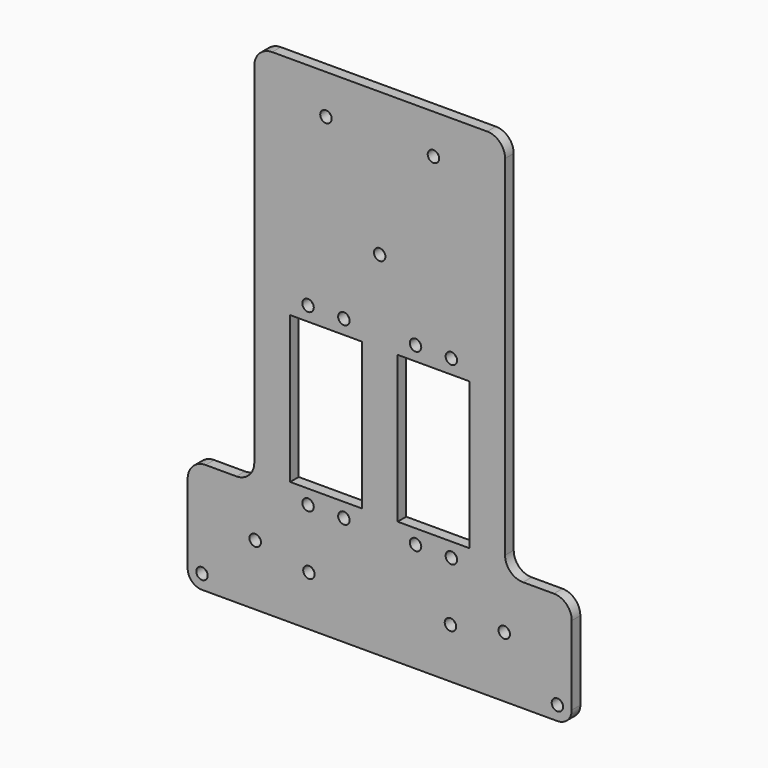
from build123d import *

# Parameters (mm, degrees)
SKETCH013_R     = 1.6
SKETCH013_W     = 20
SKETCH013_H     = 41
PAD005_DEPTH    = 3
FILLET009_R     = 4
FILLET010_R     = 5
SKETCH019_R     = 1.6
POCKET011_DEPTH = 3.001


with BuildPart() as part:
    # Sketch013 (on DatumPlane) → Pad005 (new body)
    with BuildSketch(Plane.XZ.offset(41.112698)):
        Polygon((42.75, 129.5), (42.75, -9), (-10.85, -9), (-10.85, 22), (7.75, 22), (7.75, 129.5), align=None)
        with Locations((22.75, 21.5)):
            Circle(SKETCH013_R, mode=Mode.SUBTRACT)
        with Locations((32.75, 21.5)):
            Circle(SKETCH013_R, mode=Mode.SUBTRACT)
        with Locations((8, 8)):
            Circle(SKETCH013_R, mode=Mode.SUBTRACT)
        with Locations((-6.85, -5)):
            Circle(SKETCH013_R, mode=Mode.SUBTRACT)
        with Locations((23, 5)):
            Circle(SKETCH013_R, mode=Mode.SUBTRACT)
        with Locations((22.75, 70.5)):
            Circle(SKETCH013_R, mode=Mode.SUBTRACT)
        with Locations((32.75, 70.5)):
            Circle(SKETCH013_R, mode=Mode.SUBTRACT)
        with Locations((27.75, 46)):
            Rectangle(SKETCH013_W, SKETCH013_H, mode=Mode.SUBTRACT)
    pad005 = extrude(amount=PAD005_DEPTH)

    # Mirrored: Pad005 across face of Pad005
    add(pad005.mirror(Plane(origin=(42.75, -42.612698, 60.25), x_dir=(0, 1, 0), z_dir=(1, 0, 0))))

    # Fillet009
    fillet009_edges = [part.edges().sort_by_distance(p)[0] for p in [
        (96.35, -42.612698, -9),
        (-10.85, -42.612698, -9),
    ]]
    fillet(fillet009_edges, radius=FILLET009_R)

    # Fillet010
    fillet010_edges = [part.edges().sort_by_distance(p)[0] for p in [
        (77.75, -42.612698, 22),
        (96.35, -42.612698, 22),
        (-10.85, -42.612698, 22),
        (7.75, -42.612698, 22),
        (7.75, -42.612698, 129.5),
        (77.75, -42.612698, 129.5),
    ]]
    fillet(fillet010_edges, radius=FILLET010_R)

    # Sketch019 (on Face2 of Fillet010) → Pocket011 (cut, through all)
    with BuildSketch(Plane(origin=(0, -41.112698, 0), x_dir=(-1, 0, 0), z_dir=(0, 1, 0))):
        with Locations((-42.75, 89.5)):
            Circle(SKETCH019_R)
        with Locations((-57.75, 118.5)):
            Circle(SKETCH019_R)
        with Locations((-27.75, 118.5)):
            Circle(SKETCH019_R)
    extrude(amount=-POCKET011_DEPTH, mode=Mode.SUBTRACT)


solid = part.part
